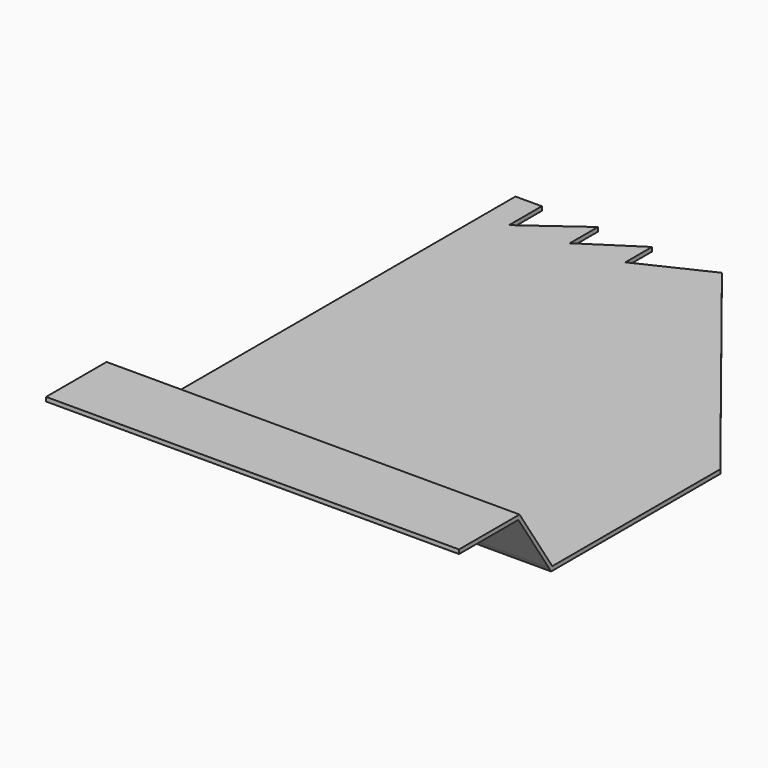
from build123d import *

# Parameters (mm, degrees)
F1_DEPTH = 100
F3_DEPTH = 25


with BuildPart() as f1:
    # F0 (on Right) → F1 (new body)
    with BuildSketch(Plane.YZ):
        Polygon((75, 0.5), (-38.848786, 0.5), (-48.764013, 15.543181), (-67.072637, 15.543181), (-67.072637, 14.543181), (-49.104895, 14.543181), (-39.848786, 0.5), (-39.189668, -0.5), (75, -0.5), align=None)
    extrude(amount=F1_DEPTH)

    # F2 (on face) → F3 (cut)
    with BuildSketch(Plane.XY.offset(0.5)):
        Polygon((33.065695, 66.954866), (50, 75), (33.065695, 75), align=None)
        Polygon((19.983491, 66.483282), (33.065695, 75), (19.983491, 75), align=None)
        Polygon((6.371066, 65.092333), (19.983491, 75), (6.371066, 75), align=None)
        Polygon((50, 75), (100, 12.005576), (100, 75), align=None)
        Polygon((100, 75), (100, 12.005576), (155.00921, 119.249597), (16.864885, 99.318206), (6.371066, 75), (19.983491, 75), (33.065695, 75), (50, 75), align=None)
    extrude(amount=-F3_DEPTH, mode=Mode.SUBTRACT)


solid = f1.part
